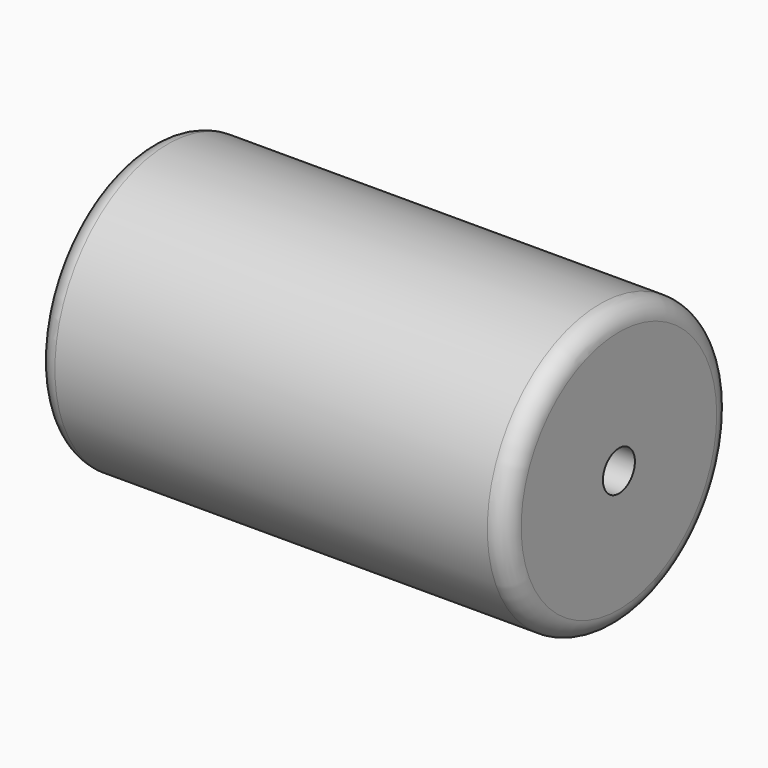
from build123d import *

# Parameters (mm, degrees)
F0_R     = 7.62
F0_R_2   = 1.0795
F1_DEPTH = 12.7
F2_DEPTH = 10.16
F3_R     = 1.016


with BuildPart() as f1:
    # F0 (on Right) → F1 (new body, symmetric)
    with BuildSketch(Plane.YZ):
        Circle(F0_R)
        Circle(F0_R_2, mode=Mode.SUBTRACT)
    extrude(amount=F1_DEPTH, both=True)

    # F0 (on Right) → F2 (join, symmetric)
    with BuildSketch(Plane.YZ):
        Circle(F0_R_2)
    extrude(amount=F2_DEPTH, both=True)

    # F3
    f3_edges = [f1.edges().sort_by_distance(p)[0] for p in [
        (12.7, -7.62, 0),
        (-12.7, -7.62, 0),
    ]]
    fillet(f3_edges, radius=F3_R)


solid = f1.part
